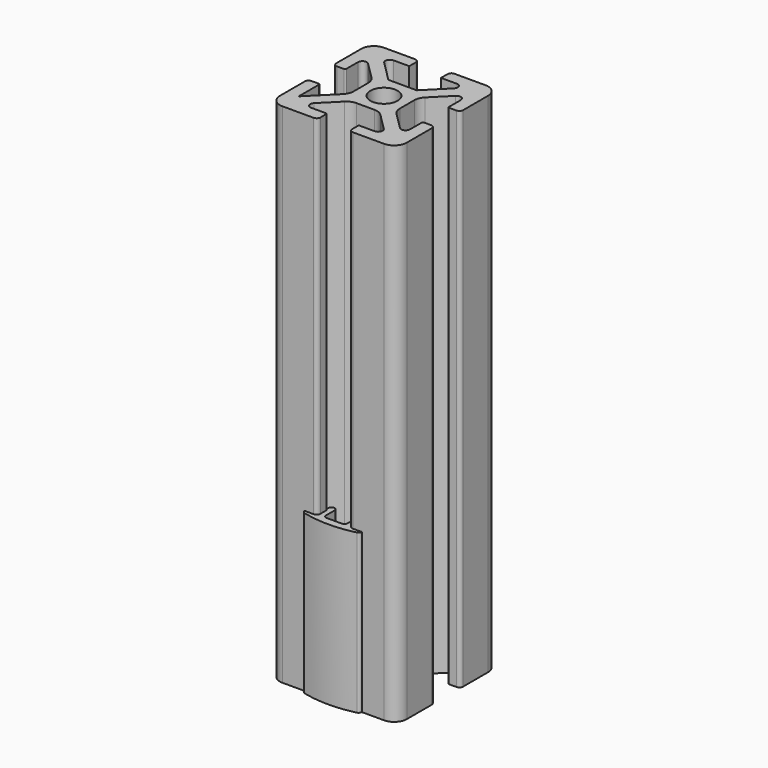
from build123d import *

# Parameters (mm, degrees)
F0_R     = 2.15
F1_DEPTH = 80
F3_DEPTH = 25


with BuildPart() as f1:
    # F0 (on Top) → F1 (new body)
    with BuildSketch(Plane.XY):
        with BuildLine():
            Line((-3.1, 10), (-8, 10))
            ThreePointArc((-8, 10), (-9.414214, 9.414214), (-10, 8))
            Line((-10, 8), (-10, 3.1))
            ThreePointArc((-10, 3.1), (-9.824264, 2.675736), (-9.4, 2.5))
            Line((-9.4, 2.5), (-8.3, 2.5))
            ThreePointArc((-8.3, 2.5), (-8.158579, 2.558579), (-8.1, 2.7))
            Line((-8.1, 2.7), (-8.1, 4.995837))
            ThreePointArc((-8.1, 4.995837), (-7.667878, 5.642553), (-6.905025, 5.490812))
            Line((-6.905025, 5.490812), (-4.235786, 2.821573))
            ThreePointArc((-4.235786, 2.821573), (-3.802241, 2.172726), (-3.65, 1.407359))
            Line((-3.65, 1.407359), (-3.65, -1.407359))
            ThreePointArc((-3.65, -1.407359), (-3.802241, -2.172726), (-4.235786, -2.821573))
            Line((-4.235786, -2.821573), (-8.1, -6.685786))
            Line((-8.1, -6.685786), (-8.1, -2.7))
            ThreePointArc((-8.1, -2.7), (-8.158579, -2.558579), (-8.3, -2.5))
            Line((-8.3, -2.5), (-9.4, -2.5))
            ThreePointArc((-9.4, -2.5), (-9.824264, -2.675736), (-10, -3.1))
            Line((-10, -3.1), (-10, -8))
            ThreePointArc((-10, -8), (-9.414214, -9.414214), (-8, -10))
            Line((-8, -10), (-3.1, -10))
            ThreePointArc((-3.1, -10), (-2.675736, -9.824264), (-2.5, -9.4))
            Line((-2.5, -9.4), (-2.5, -8.3))
            ThreePointArc((-2.5, -8.3), (-2.558579, -8.158579), (-2.7, -8.1))
            Line((-2.7, -8.1), (-4.995837, -8.1))
            ThreePointArc((-4.995837, -8.1), (-5.642553, -7.667878), (-5.490812, -6.905025))
            Line((-5.490812, -6.905025), (-2.821573, -4.235786))
            ThreePointArc((-2.821573, -4.235786), (-2.172726, -3.802241), (-1.407359, -3.65))
            Line((-1.407359, -3.65), (1.407359, -3.65))
            ThreePointArc((1.407359, -3.65), (2.172726, -3.802241), (2.821573, -4.235786))
            Line((2.821573, -4.235786), (5.490812, -6.905025))
            ThreePointArc((5.490812, -6.905025), (5.642553, -7.667878), (4.995837, -8.1))
            Line((4.995837, -8.1), (2.7, -8.1))
            ThreePointArc((2.7, -8.1), (2.558579, -8.158579), (2.5, -8.3))
            Line((2.5, -8.3), (2.5, -9.4))
            ThreePointArc((2.5, -9.4), (2.675736, -9.824264), (3.1, -10))
            Line((3.1, -10), (8, -10))
            ThreePointArc((8, -10), (9.414214, -9.414214), (10, -8))
            Line((10, -8), (10, -3.1))
            ThreePointArc((10, -3.1), (9.824264, -2.675736), (9.4, -2.5))
            Line((9.4, -2.5), (8.3, -2.5))
            ThreePointArc((8.3, -2.5), (8.158579, -2.558579), (8.1, -2.7))
            Line((8.1, -2.7), (8.1, -4.995837))
            ThreePointArc((8.1, -4.995837), (7.667878, -5.642553), (6.905025, -5.490812))
            Line((6.905025, -5.490812), (4.235786, -2.821573))
            ThreePointArc((4.235786, -2.821573), (3.802241, -2.172726), (3.65, -1.407359))
            Line((3.65, -1.407359), (3.65, 1.407359))
            ThreePointArc((3.65, 1.407359), (3.802241, 2.172726), (4.235786, 2.821573))
            Line((4.235786, 2.821573), (6.905025, 5.490812))
            ThreePointArc((6.905025, 5.490812), (7.667878, 5.642553), (8.1, 4.995837))
            Line((8.1, 4.995837), (8.1, 2.7))
            ThreePointArc((8.1, 2.7), (8.158579, 2.558579), (8.3, 2.5))
            Line((8.3, 2.5), (9.4, 2.5))
            ThreePointArc((9.4, 2.5), (9.824264, 2.675736), (10, 3.1))
            Line((10, 3.1), (10, 8))
            ThreePointArc((10, 8), (9.414214, 9.414214), (8, 10))
            Line((8, 10), (3.1, 10))
            ThreePointArc((3.1, 10), (2.675736, 9.824264), (2.5, 9.4))
            Line((2.5, 9.4), (2.5, 8.1))
            Line((2.5, 8.1), (4.995837, 8.1))
            ThreePointArc((4.995837, 8.1), (5.642553, 7.667878), (5.490812, 6.905025))
            Line((5.490812, 6.905025), (2.235786, 3.65))
            Line((2.235786, 3.65), (-2.235786, 3.65))
            Line((-2.235786, 3.65), (-5.490812, 6.905025))
            ThreePointArc((-5.490812, 6.905025), (-5.642553, 7.667878), (-4.995837, 8.1))
            Line((-4.995837, 8.1), (-2.5, 8.1))
            Line((-2.5, 8.1), (-2.5, 9.4))
            ThreePointArc((-2.5, 9.4), (-2.675736, 9.824264), (-3.1, 10))
        make_face()
        Circle(F0_R, mode=Mode.SUBTRACT)
    extrude(amount=F1_DEPTH)


with BuildPart() as f3:
    # F2 (on Top) → F3 (new body)
    with BuildSketch(Plane.XY):
        with BuildLine():
            Line((-2.5, -8.3), (-2.5, -9.4))
            ThreePointArc((-2.5, -9.4), (-2.675736, -9.824264), (-3.1, -10))
            Line((-3.1, -10), (-4.5, -10))
            Line((-4.5, -10), (-4.5, -10.013132))
            ThreePointArc((-4.5, -10.013132), (-4.393681, -10.321377), (-4.11994, -10.498533))
            ThreePointArc((-4.11994, -10.498533), (0, -11), (4.11994, -10.498533))
            ThreePointArc((4.11994, -10.498533), (4.393681, -10.321377), (4.5, -10.013132))
            Line((4.5, -10.013132), (4.5, -10))
            Line((4.5, -10), (3.1, -10))
            ThreePointArc((3.1, -10), (2.675736, -9.824264), (2.5, -9.4))
            Line((2.5, -9.4), (2.5, -8.3))
            ThreePointArc((2.5, -8.3), (2.558579, -8.158579), (2.7, -8.1))
            Line((2.7, -8.1), (2.7, -7.6))
            ThreePointArc((2.7, -7.6), (2.553553, -7.246447), (2.2, -7.1))
            ThreePointArc((2.2, -7.1), (1.846447, -7.246447), (1.7, -7.6))
            Line((1.7, -7.6), (1.7, -9.3))
            ThreePointArc((1.7, -9.3), (1.553553, -9.653553), (1.2, -9.8))
            Line((1.2, -9.8), (-1.2, -9.8))
            ThreePointArc((-1.2, -9.8), (-1.553553, -9.653553), (-1.7, -9.3))
            Line((-1.7, -9.3), (-1.7, -7.6))
            ThreePointArc((-1.7, -7.6), (-1.846447, -7.246447), (-2.2, -7.1))
            ThreePointArc((-2.2, -7.1), (-2.553553, -7.246447), (-2.7, -7.6))
            Line((-2.7, -7.6), (-2.7, -8.1))
            ThreePointArc((-2.7, -8.1), (-2.558579, -8.158579), (-2.5, -8.3))
        make_face()
    extrude(amount=F3_DEPTH)


solid = Compound([f1.part, f3.part])
